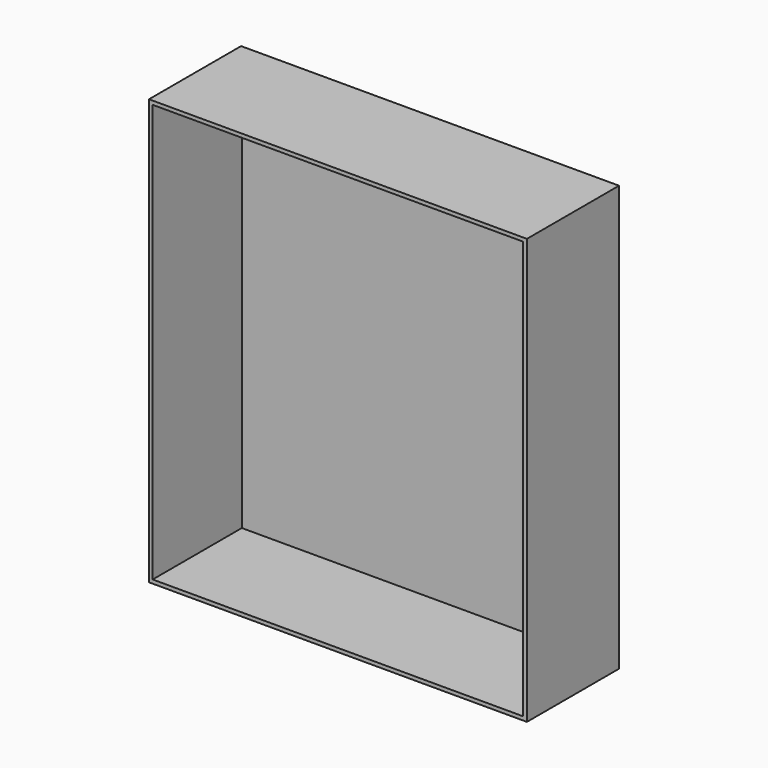
from build123d import *

# Parameters (mm, degrees)
F0_W     = 76.2264374644
F0_H     = 25.4088118672
F1_DEPTH = 113.792
F2_DEPTH = 183.134
F3_DEPTH = 178.054
F4_DEPTH = 53.594
F5_T     = -2.54


with BuildPart() as f1:
    # F0 (on Top) → F1 (new body)
    with BuildSketch(Plane.XY):
        with Locations((-43.1949794292, 38.960184902)):
            Rectangle(F0_W, F0_H)
    extrude(amount=F1_DEPTH)

    # F2 (add): a face of the model
    f2_faces = [f1.faces().sort_by_distance(p)[0] for p in [
        (-5.0817606971, 38.960184902, 56.896),
    ]]
    extrude(f2_faces, amount=F2_DEPTH)

    # F3 (add): a face of the model
    f3_faces = [f1.faces().sort_by_distance(p)[0] for p in [
        (48.3720205708, 38.960184902, 113.792),
    ]]
    extrude(f3_faces, amount=F3_DEPTH)

    # F4 (add): a face of the model
    f4_faces = [f1.faces().sort_by_distance(p)[0] for p in [
        (48.3720205708, 26.2557789683, 145.923),
    ]]
    extrude(f4_faces, amount=F4_DEPTH)

    # F5
    f5_openings = [f1.faces().sort_by_distance(p)[0] for p in [
        (48.372021, -27.338221, 145.923),
    ]]
    offset(amount=F5_T, openings=f5_openings)


solid = f1.part
